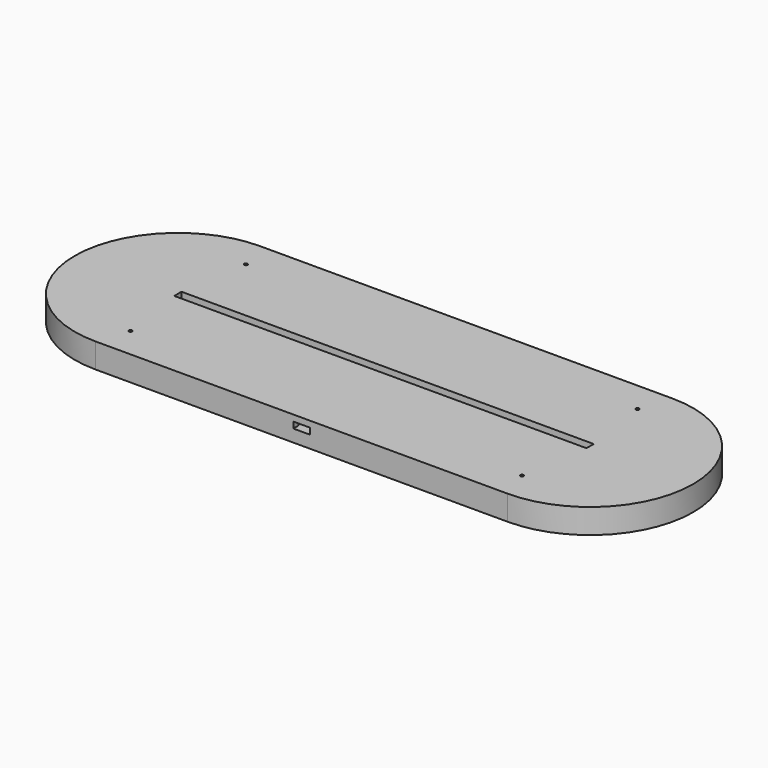
from build123d import *

# Parameters (mm, degrees)
PAD_DEPTH       = 3
PAD001_DEPTH    = 3
SKETCH002_W     = 209.08447
SKETCH002_H     = 4.18
PAD002_DEPTH    = 3
SKETCH003_W     = 26.3
SKETCH003_H     = 34.2
POCKET_DEPTH    = 3
SKETCH004_W     = 18
SKETCH004_H     = 25
POCKET001_DEPTH = 3
SKETCH005_W     = 14
SKETCH005_H     = 5
POCKET002_DEPTH = 6
SKETCH006_W     = 14
SKETCH006_H     = 3
POCKET003_DEPTH = 3
SKETCH007_W     = 8
SKETCH007_H     = 3
POCKET004_DEPTH = 3
SKETCH008_W     = 200
SKETCH008_H     = 4.4
PAD003_DEPTH    = 3
SKETCH009_R     = 0.8
POCKET005_DEPTH = 12


with BuildPart() as part:
    # Sketch → Pad (new body)
    with BuildSketch(Plane.XY):
        with BuildLine():
            ThreePointArc((-100, 50), (-150, 0), (-100, -50))
            Line((-100, -50), (100, -50))
            ThreePointArc((100, -50), (150, 0), (100, 50))
            Line((-100, 50), (100, 50))
        make_face()
    extrude(amount=PAD_DEPTH)

    # Sketch001 (on Face6 of Pad) → Pad001 (join)
    with BuildSketch(Plane.XY.offset(3)):
        with BuildLine():
            ThreePointArc((-100, 50), (-150, 0), (-100, -50))
            Line((-100, -50), (100, -50))
            ThreePointArc((100, -50), (150, 0), (100, 50))
            Line((-100, 50), (100, 50))
        make_face()
        with BuildLine():
            ThreePointArc((-100, 5), (-105, 0), (-100, -5))
            Line((-100, -5), (100, -5))
            ThreePointArc((100, -5), (105, 0), (100, 5))
            Line((-100, 5), (100, 5))
        make_face(mode=Mode.SUBTRACT)
    extrude(amount=PAD001_DEPTH)

    # Sketch002 (on Face9 of Pad001) → Pad002 (join)
    with BuildSketch(Plane.XY.offset(6)):
        with BuildLine():
            ThreePointArc((-100, 50), (-150, 0), (-100, -50))
            Line((-100, -50), (100, -50))
            ThreePointArc((100, -50), (150, 0), (100, 50))
            Line((-100, 50), (100, 50))
        make_face()
        Rectangle(SKETCH002_W, SKETCH002_H, mode=Mode.SUBTRACT)
    extrude(amount=PAD002_DEPTH)

    # Sketch003 (on Face13 of Pad002) → Pocket (cut)
    with BuildSketch(Plane.XY.offset(9)):
        with Locations((0, -29.9)):
            Rectangle(SKETCH003_W, SKETCH003_H)
    extrude(amount=-POCKET_DEPTH, mode=Mode.SUBTRACT)

    # Sketch004 (on Face27 of Pocket) → Pocket001 (cut)
    with BuildSketch(Plane.XY.offset(6)):
        with Locations((0, -25.3)):
            Rectangle(SKETCH004_W, SKETCH004_H)
    extrude(amount=-POCKET001_DEPTH, mode=Mode.SUBTRACT)

    # Sketch005 (on Face13 of Pocket001) → Pocket002 (cut)
    with BuildSketch(Plane.XY.offset(9)):
        with Locations((0, -10.3)):
            Rectangle(SKETCH005_W, SKETCH005_H)
    extrude(amount=-POCKET002_DEPTH, mode=Mode.SUBTRACT)

    # Sketch006 (on Face23 of Pocket002) → Pocket003 (cut)
    with BuildSketch(Plane.XZ.offset(7.8)):
        with Locations((0, 4.5)):
            Rectangle(SKETCH006_W, SKETCH006_H)
    extrude(amount=-POCKET003_DEPTH, mode=Mode.SUBTRACT)

    # Sketch007 (on Face13 of Pocket003) → Pocket004 (cut)
    with BuildSketch(Plane.XY.offset(9)):
        with Locations((0, -48.5)):
            Rectangle(SKETCH007_W, SKETCH007_H)
    extrude(amount=-POCKET004_DEPTH, mode=Mode.SUBTRACT)

    # Sketch008 (on Face15 of Pocket004) → Pad003 (join)
    with BuildSketch(Plane.XY.offset(9)):
        with BuildLine():
            ThreePointArc((-100, 50), (-150, 0), (-100, -50))
            Line((-100, -50), (100, -50))
            ThreePointArc((100, -50), (150, 0), (100, 50))
            Line((-100, 50), (100, 50))
        make_face()
        Rectangle(SKETCH008_W, SKETCH008_H, mode=Mode.SUBTRACT)
    extrude(amount=PAD003_DEPTH)

    # Sketch009 (on Face4 of Pad003) → Pocket005 (cut)
    with BuildSketch(Plane(origin=(0, 0, 0), x_dir=(1, 0, 0), z_dir=(0, 0, -1))):
        with Locations((-95, 35)):
            Circle(SKETCH009_R)
        with Locations((-95, -35)):
            Circle(SKETCH009_R)
    pocket005 = extrude(amount=-POCKET005_DEPTH, mode=Mode.SUBTRACT)

    # Mirrored: Pocket005 across Sketch009 V_Axis
    add(pocket005.mirror(Plane(origin=(0, 0, 0), x_dir=(0, 0, -1), z_dir=(1, 0, 0))), mode=Mode.SUBTRACT)


solid = part.part
